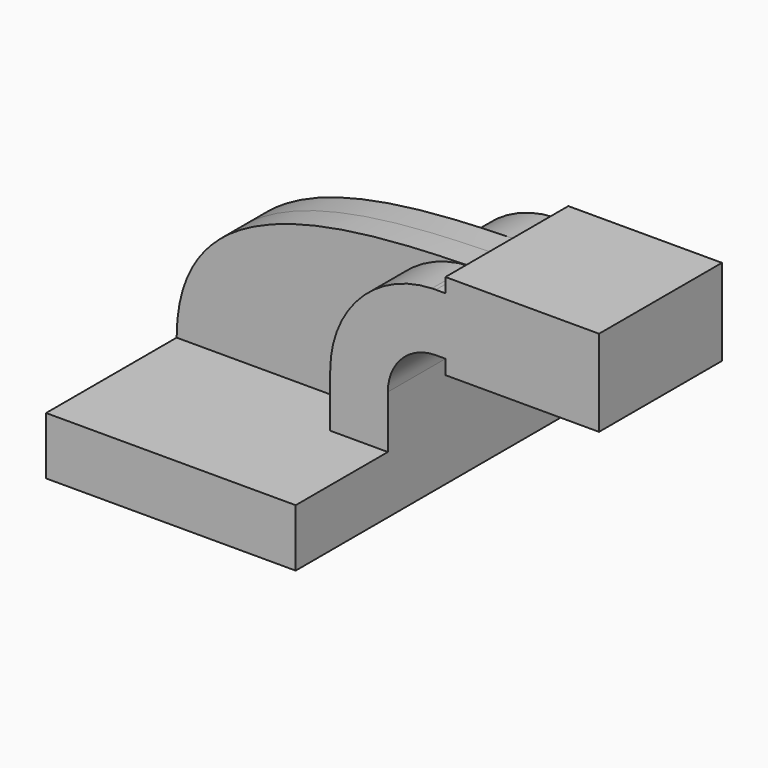
from build123d import *

# Parameters (mm, degrees)
F1_DEPTH = 63.5
F2_DEPTH = 25.4
F3_DEPTH = 9.525


with BuildPart() as f1:
    # F0 (on Front) → F1 (new body, symmetric)
    with BuildSketch(Plane.XZ):
        Polygon((-41.275, -9.525), (41.275, -9.525), (41.275, 9.525), (22.225, 9.525), (-41.275, 9.525), align=None)
    extrude(amount=F1_DEPTH, both=True)

    # F0 (on Front) → F2 (join, symmetric)
    with BuildSketch(Plane.XZ):
        with BuildLine():
            Line((22.225, 9.525), (41.275, 9.525))
            Line((41.275, 9.525), (41.275, 27.0002))
            ThreePointArc((41.275, 27.0002), (45.92468, 38.22552), (57.15, 42.8752))
            Line((57.15, 42.8752), (60.325, 42.8752))
            Line((60.325, 42.8752), (60.325, 61.9252))
            Line((60.325, 61.9252), (57.15, 61.9252))
            add(Edge.make_bspline(
                [(55.875812, 61.901949), (56.300707, 61.910085), (56.725448, 61.917827), (57.15, 61.9252)],
                knots=[110.51738, 110.51738, 110.51738, 110.51738, 111.504536, 111.504536, 111.504536, 111.504536], degree=3))
            ThreePointArc((55.875812, 61.901949), (32.007838, 51.241225), (22.225, 27.0002))
            Line((22.225, 27.0002), (22.225, 9.525))
        make_face()
        Polygon((60.325, 61.9252), (60.325, 42.8752), (60.325, 38.1), (111.125, 38.1), (111.125, 66.675), (60.325, 66.675), align=None)
    extrude(amount=F2_DEPTH, both=True)

    # F0 (on Front) → F3 (join, symmetric)
    with BuildSketch(Plane.XZ):
        with BuildLine():
            add(Edge.make_bspline(
                [(-41.275, 9.525), (-41.187675, 55.142385), (8.306509, 60.991071), (55.875812, 61.901949)],
                knots=[0, 0, 0, 0, 110.51738, 110.51738, 110.51738, 110.51738], degree=3))
            Line((-41.275, 9.525), (22.225, 9.525))
            Line((22.225, 9.525), (22.225, 27.0002))
            ThreePointArc((22.225, 27.0002), (32.007838, 51.241225), (55.875812, 61.901949))
        make_face()
    extrude(amount=F3_DEPTH, both=True)


solid = f1.part
